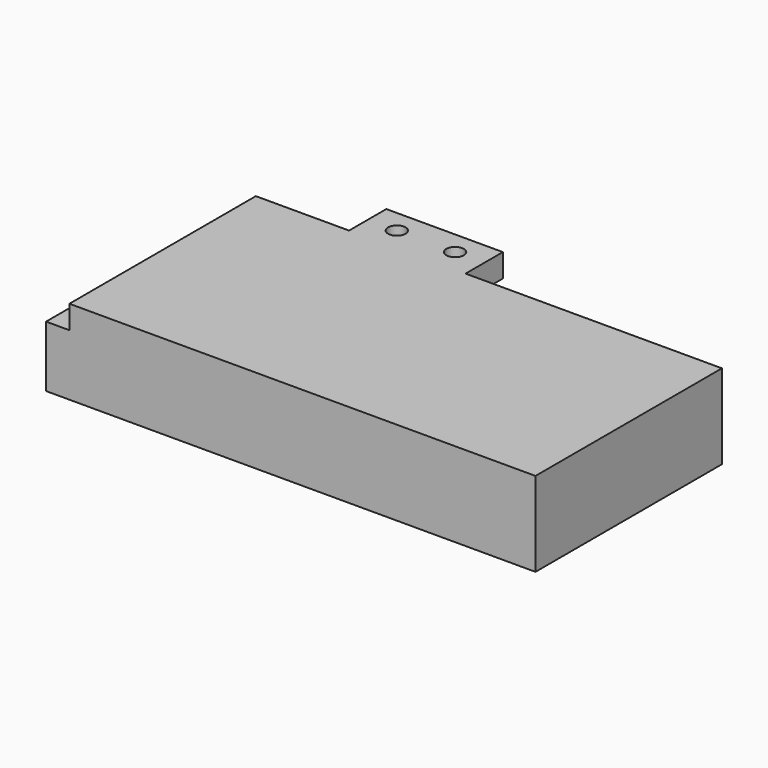
from build123d import *

# Parameters (mm, degrees)
F0_W     = 266.7
F0_H     = 127
F1_DEPTH = 33.3375
F2_W     = 63.5
F2_H     = 25.4
F2_R     = 4.7625
F3_DEPTH = 12.7


with BuildPart() as f1:
    # F0 (on Top) → F1 (new body)
    with BuildSketch(Plane.XY):
        with Locations((-133.35, 63.5)):
            Rectangle(F0_W, F0_H)
    extrude(amount=F1_DEPTH)

    # F2 (on face) → F3 (join)
    with BuildSketch(Plane.XY.offset(33.3375)):
        Polygon((-254, 0), (0, 0), (0, 127), (-139.7, 127), (-203.2, 127), (-254, 127), align=None)
        with Locations((-171.45, 139.7)):
            Rectangle(F2_W, F2_H)
        with Locations((-187.325, 139.7)):
            Circle(F2_R, mode=Mode.SUBTRACT)
        with Locations((-155.575, 139.7)):
            Circle(F2_R, mode=Mode.SUBTRACT)
    extrude(amount=F3_DEPTH)


solid = f1.part
